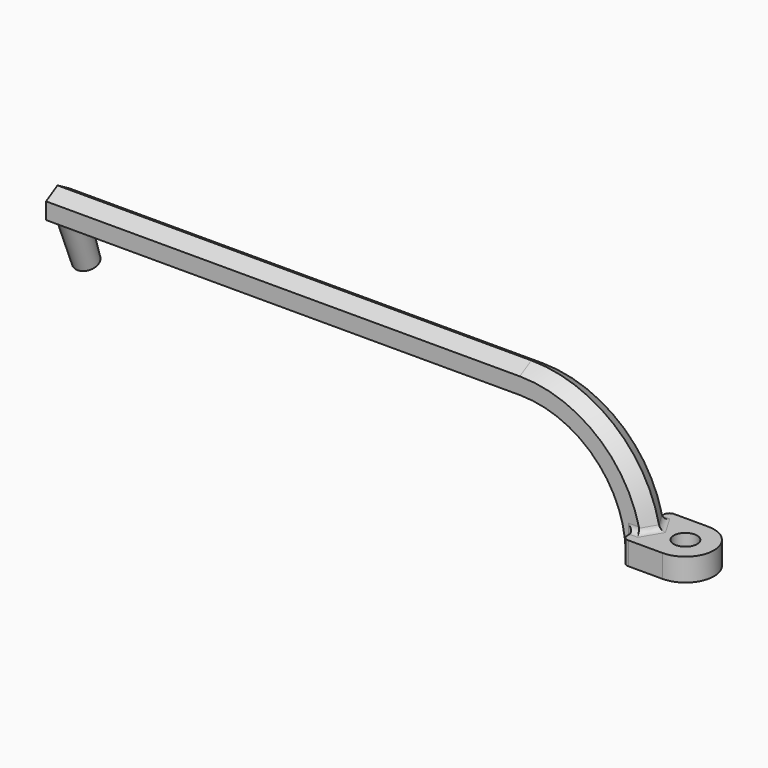
from build123d import *

# Parameters (mm, degrees)
SKETCH_R  = 2.05
PAD_DEPTH = 4
FILLET_R  = 1


with BuildPart() as part:
    # Sketch → Pad (new body)
    with BuildSketch(Plane.XY):
        with BuildLine():
            Line((0, 5), (-7, 5))
            Line((-7, 5), (-7, -5))
            Line((0, -5), (-7, -5))
            ThreePointArc((0, -5), (5, 0), (0, 5))
        make_face()
        Circle(SKETCH_R, mode=Mode.SUBTRACT)
    extrude(amount=PAD_DEPTH)

    # AdditivePipe: sweep along a path in Sketch001
    with BuildLine(Plane.XZ) as additivepipe_path:
        ThreePointArc((-7, 0), (-12.8578643763, 14.1421356237), (-27, 20))
        Line((-27, 20), (-110, 20))
    # Sketch002 → AdditivePipe (sweep)
    with BuildSketch(Plane.XY):
        Polygon((-8.443375673, -2.5), (-5.556624327, -2.5), (-4.1132486541, 0), (-5.556624327, 2.5), (-8.443375673, 2.5), (-9.8867513459, 0), align=None)
    sweep(path=additivepipe_path.line, is_frenet=True)

    # Sketch003 (on Face22 of AdditivePipe) → Revolution (revolve)
    with BuildSketch(Plane(origin=(-107.7, 0, 0), x_dir=(0, -1, 0), z_dir=(-1, 0, 0))):
        Polygon((0, 20), (-3.4202014333, 10.6030737921), (-1.5408161917, 9.9190335055), (2.1612930278, 19.2133536704), align=None)
    revolve(axis=Axis((-107.7, 6.4278760969, 2.3395555688), (0, 0.3420201433, -0.9396926208)))

    # Fillet
    fillet_edges = [part.edges().sort_by_distance(p)[0] for p in [
        (-6.466502, 2.5, 4),
        (-5.198955, 1.250176, 4),
        (-5.198955, -1.250176, 4),
        (-6.466502, -2.5, 4),
        (-7, -2.5, 2),
        (-7, -5, 2),
        (-7, 2.5, 2),
        (-7, 5, 2),
    ]]
    fillet(fillet_edges, radius=FILLET_R)


solid = part.part
